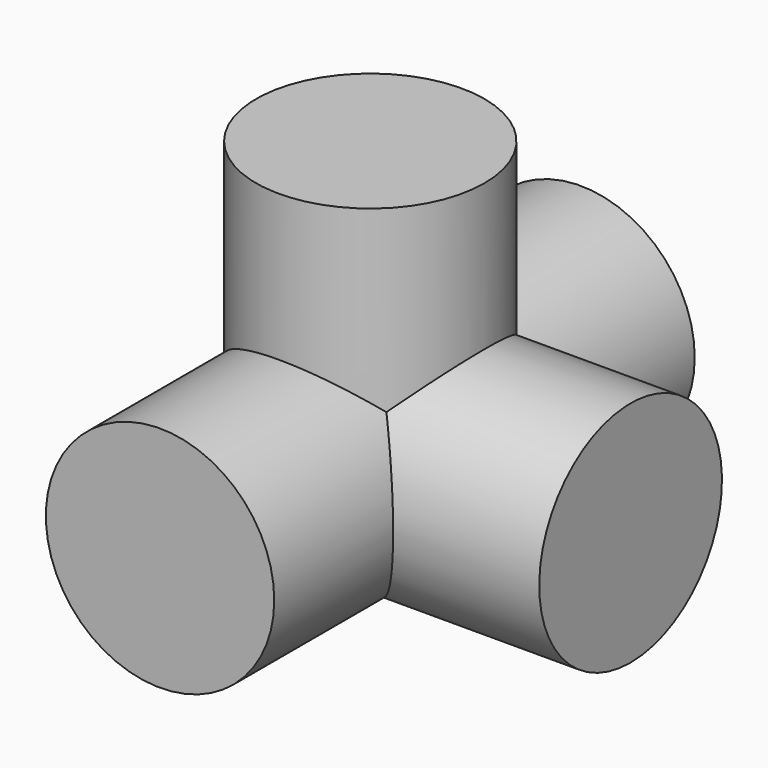
from build123d import *

# Parameters (mm, degrees)
CYLINDER010_R     = 13.9827
CYLINDER010_DEPTH = 31.877
CYLINDER009_R     = 13.9827
CYLINDER009_DEPTH = 64.36
CYLINDER008_R     = 13.9827
CYLINDER008_DEPTH = 31.877


with BuildPart() as cylinder010:
    # Cylinder010 → Cylinder010 (new body)
    with BuildSketch(Plane(origin=(0, 0, 0), x_dir=(0, 0, -1), z_dir=(1, 0, 0))):
        Circle(CYLINDER010_R)
    extrude(amount=CYLINDER010_DEPTH)


with BuildPart() as cylinder009:
    # Cylinder009 → Cylinder009 (new body)
    with BuildSketch(Plane.XZ.offset(-32.1818)):
        Circle(CYLINDER009_R)
    extrude(amount=CYLINDER009_DEPTH)


with BuildPart() as f_4_way:
    # Cylinder008 → Cylinder008 (new body)
    with BuildSketch(Plane.XY):
        Circle(CYLINDER008_R)
    extrude(amount=CYLINDER008_DEPTH)

    # Fusion003: union Cylinder009
    add(cylinder009.part)

    # Fusion004: union Cylinder010
    add(cylinder010.part)


solid = f_4_way.part
